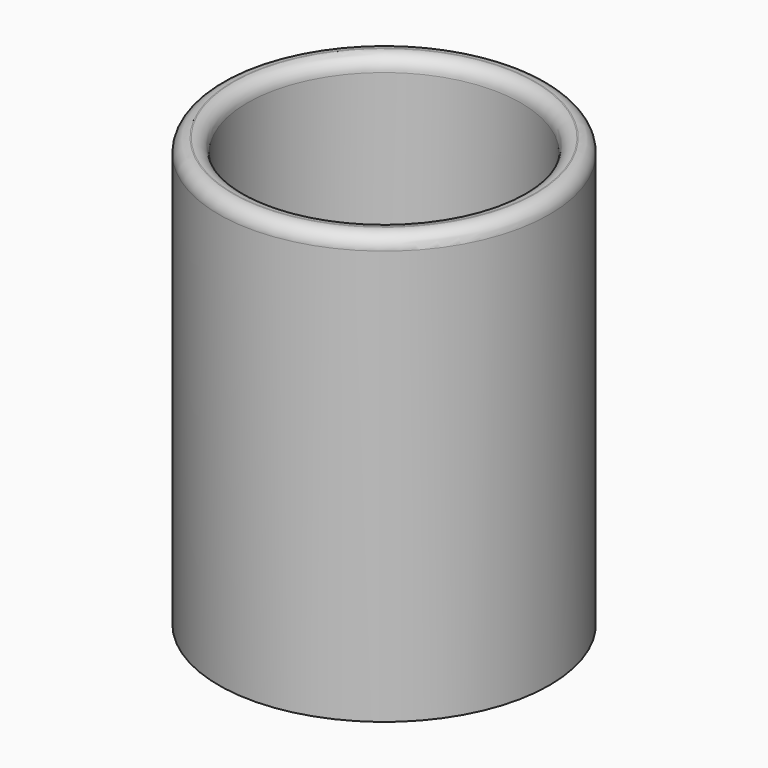
from build123d import *

# Parameters (mm, degrees)
F0_R     = 44.1474000208
F1_DEPTH = 114.3
F2_T     = -7.62
F3_R     = 3.6792614691


with BuildPart() as f1:
    # F0 (on Top) → F1 (new body)
    with BuildSketch(Plane.XY):
        Circle(F0_R)
    extrude(amount=F1_DEPTH)

    # F2
    f2_openings = [f1.faces().sort_by_distance(p)[0] for p in [
        (0, 0, 114.3),
    ]]
    offset(amount=F2_T, openings=f2_openings)

    # F3
    f3_edges = [f1.edges().sort_by_distance(p)[0] for p in [
        (-44.1474, 0, 114.3),
        (-36.5274, 0, 114.3),
    ]]
    fillet(f3_edges, radius=F3_R)


solid = f1.part
